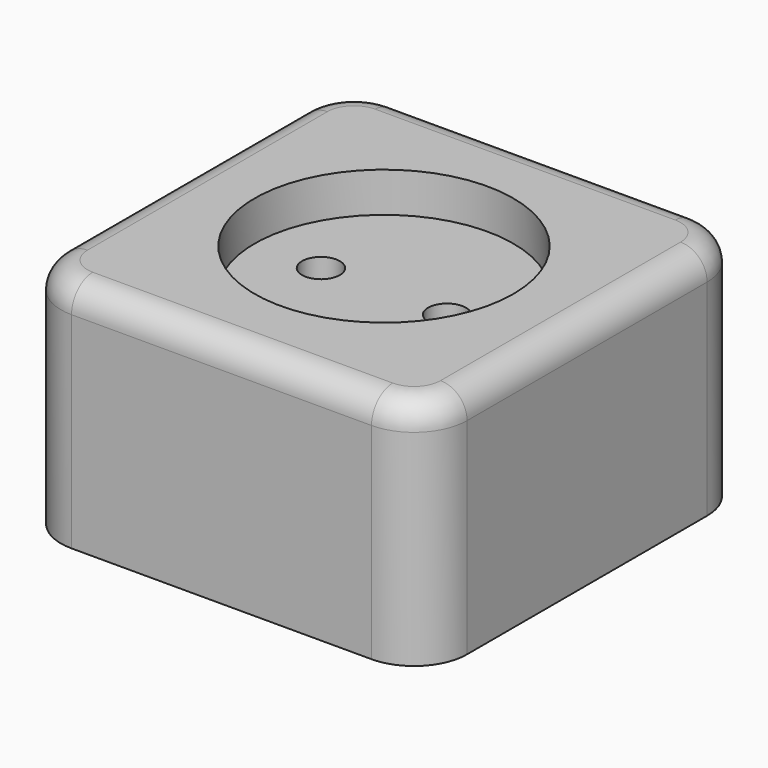
from build123d import *

# Parameters (mm, degrees)
PAD009_DEPTH            = 35
POCKET002_DEPTH         = 25
SKETCH025_W             = 6.4
SKETCH025_H             = 2.5
PAD010_DEPTH            = 9
SKETCH026_R             = 1.55
PAD011_DEPTH            = 9
PAD012_DEPTH            = 33
SKETCH025_MIRRORED_2_W  = 6.4
SKETCH025_MIRRORED_2_H  = 2.5
PAD010_MIRRORED_2_DEPTH = 9
PAD012_MIRRORED_2_DEPTH = 33
SKETCH026_MIRRORED_2_R  = 1.55
PAD011_MIRRORED_2_DEPTH = 9
POCKET003_DEPTH         = 10
PAD013_DEPTH            = 7
POCKET004_DEPTH         = 10
SKETCH031_W             = 19.5
SKETCH031_H             = 6
SKETCH032_R             = 2.85
POCKET005_DEPTH         = 0.001
POCKET005_DEPTH_BACK    = 35.001
FILLET001_R             = 4


with BuildPart() as part:
    # Sketch023 → Pad009 (new body)
    with BuildSketch(Plane.XY):
        with BuildLine():
            Line((-22.6, 30.6), (22.6, 30.6))
            ThreePointArc((30.6, 22.6), (28.256854, 28.256854), (22.6, 30.6))
            Line((30.6, 22.6), (30.6, -22.6))
            ThreePointArc((22.6, -30.6), (28.256854, -28.256854), (30.6, -22.6))
            Line((22.6, -30.6), (-22.6, -30.6))
            ThreePointArc((-30.6, -22.6), (-28.256854, -28.256854), (-22.6, -30.6))
            Line((-30.6, -22.6), (-30.6, 22.6))
            ThreePointArc((-22.6, 30.6), (-28.256854, 28.256854), (-30.6, 22.6))
        make_face()
    extrude(amount=PAD009_DEPTH)

    # Sketch024 → Pocket002 (cut)
    with BuildSketch(Plane.XY):
        with BuildLine():
            Line((-22.6, 28.3), (22.6, 28.3))
            ThreePointArc((28.3, 22.6), (26.630509, 26.630509), (22.6, 28.3))
            Line((28.3, 22.6), (28.3, -22.6))
            ThreePointArc((22.6, -28.3), (26.630509, -26.630509), (28.3, -22.6))
            Line((22.6, -28.3), (-22.6, -28.3))
            ThreePointArc((-28.3, -22.6), (-26.630509, -26.630509), (-22.6, -28.3))
            Line((-28.3, -22.6), (-28.3, 22.6))
            ThreePointArc((-22.6, 28.3), (-26.630509, 26.630509), (-28.3, 22.6))
        make_face()
    extrude(amount=POCKET002_DEPTH, mode=Mode.SUBTRACT)

    # Sketch025 → Pad010 (join)
    with BuildSketch(Plane.XY):
        with Locations((16.3, 27.35)):
            Rectangle(SKETCH025_W, SKETCH025_H)
    pad010 = extrude(amount=PAD010_DEPTH)

    # Sketch026 → Pad011 (join)
    with BuildSketch(Plane.XY):
        with Locations((28.1, 15.6)):
            Circle(SKETCH026_R)
    pad011 = extrude(amount=PAD011_DEPTH)

    # Sketch027 → Pad012 (join)
    with BuildSketch(Plane.XY):
        with BuildLine():
            Line((21.8, 3.3), (12.7, 3.3))
            Line((12.7, 3.3), (12.7, 5.5))
            ThreePointArc((14.7, 7.5), (13.285786, 6.914214), (12.7, 5.5))
            Line((14.7, 7.5), (19.8, 7.5))
            ThreePointArc((21.8, 5.5), (21.214214, 6.914214), (19.8, 7.5))
            Line((21.8, 5.5), (21.8, 3.3))
        make_face()
    pad012 = extrude(amount=PAD012_DEPTH)

    # Sketch025 Mirrored 2 → Pad010 Mirrored 2 (add)
    with BuildSketch(Plane(origin=(0, 0, 0), x_dir=(-1, 0, 0), z_dir=(0, 0, -1))):
        with Locations((16.3, 27.35)):
            Rectangle(SKETCH025_MIRRORED_2_W, SKETCH025_MIRRORED_2_H)
    pad010_mirrored_2 = extrude(amount=-PAD010_MIRRORED_2_DEPTH)

    # Sketch027 Mirrored 2 → Pad012 Mirrored 2 (add)
    with BuildSketch(Plane(origin=(0, 0, 0), x_dir=(-1, 0, 0), z_dir=(0, 0, -1))):
        with BuildLine():
            Line((21.8, 3.3), (12.7, 3.3))
            Line((12.7, 3.3), (12.7, 5.5))
            ThreePointArc((14.7, 7.5), (13.285786, 6.914214), (12.7, 5.5))
            Line((14.7, 7.5), (19.8, 7.5))
            ThreePointArc((21.8, 5.5), (21.214214, 6.914214), (19.8, 7.5))
            Line((21.8, 5.5), (21.8, 3.3))
        make_face()
    pad012_mirrored_2 = extrude(amount=-PAD012_MIRRORED_2_DEPTH)

    # Sketch026 Mirrored 2 → Pad011 Mirrored 2 (add)
    with BuildSketch(Plane(origin=(0, 0, 0), x_dir=(-1, 0, 0), z_dir=(0, 0, -1))):
        with Locations((28.1, 15.6)):
            Circle(SKETCH026_MIRRORED_2_R)
    pad011_mirrored_2 = extrude(amount=-PAD011_MIRRORED_2_DEPTH)

    # Mirrored001: Pad010, Pad012, Pad011, Pad010 Mirrored 2, Pad012 Mirrored 2, Pad011 Mirrored 2 across XZ
    add(pad010.mirror(Plane.XZ))
    add(pad012.mirror(Plane.XZ))
    add(pad011.mirror(Plane.XZ))
    add(pad010_mirrored_2.mirror(Plane.XZ))
    add(pad012_mirrored_2.mirror(Plane.XZ))
    add(pad011_mirrored_2.mirror(Plane.XZ))

    # Sketch028 → Pocket003 (cut, symmetric)
    with BuildSketch(Plane.XZ):
        Polygon((-12.75, 1), (12.75, 1), (17.5, 0), (-17.5, 0), align=None)
    extrude(amount=POCKET003_DEPTH, both=True, mode=Mode.SUBTRACT)

    # Sketch029 → Pad013 (join)
    with BuildSketch(Plane.XY.offset(2)):
        with BuildLine():
            Line((23.95, 5), (12.95, 5))
            Line((12.95, 5), (12.95, -5))
            Line((12.95, -5), (23.95, -5))
            Line((23.95, -5), (23.95, -2.25))
            Line((19, -2.25), (23.95, -2.25))
            ThreePointArc((19, 2.25), (16.75, 0), (19, -2.25))
            Line((19, 2.25), (23.95, 2.25))
            Line((23.95, 2.25), (23.95, 5))
        make_face()
    pad013 = extrude(amount=PAD013_DEPTH)

    # Sketch030 → Pocket004 (cut)
    with BuildSketch(Plane.XY.offset(9)):
        with BuildLine():
            ThreePointArc((19, 5), (14, 0), (19, -5))
            Line((19, -5), (25, -5))
            Line((25, 5), (25, -5))
            Line((19, 5), (25, 5))
        make_face()
    pocket004 = extrude(amount=POCKET004_DEPTH, mode=Mode.SUBTRACT)

    # Mirrored002: Pad013, Pocket004 across YZ
    add(pad013.mirror(Plane.YZ))
    add(pocket004.mirror(Plane.YZ), mode=Mode.SUBTRACT)

    # Sketch031 → Groove (revolve, cut)
    with BuildSketch(Plane.XZ):
        with Locations((9.75, 32)):
            Rectangle(SKETCH031_W, SKETCH031_H)
    revolve(axis=Axis((0, 0, 0), (0, 0, 1)), mode=Mode.SUBTRACT)

    # Sketch032 → Pocket005 (cut, two sides)
    with BuildSketch(Plane.XY) as pocket005_sk:
        with Locations((9.5, 0)):
            Circle(SKETCH032_R)
        with Locations((-9.5, 0)):
            Circle(SKETCH032_R)
    extrude(amount=-POCKET005_DEPTH, mode=Mode.SUBTRACT)
    extrude(pocket005_sk.sketch, amount=POCKET005_DEPTH_BACK, mode=Mode.SUBTRACT)

    # Fillet001
    fillet001_edges = [part.edges().sort_by_distance(p)[0] for p in [
        (0, -30.6, 35),
    ]]
    fillet(fillet001_edges, radius=FILLET001_R)


solid = part.part
